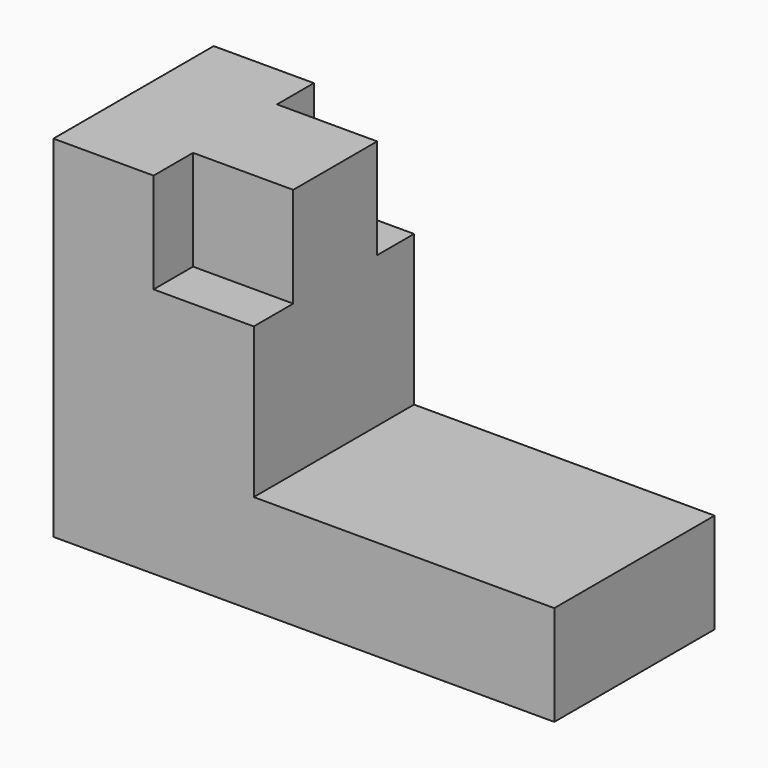
from build123d import *

# Parameters (mm, degrees)
F1_DEPTH   = 25.4
F2_W       = 6.2540306985
F2_H       = 12.7
F2_W_2     = 5.8445585892
F1_FACE1_W = 25.4
F1_FACE1_H = 19.05
F3_DEPTH   = 12.7


with BuildPart() as f1:
    # F0 (on Front) → F1 (new body)
    with BuildSketch(Plane.XZ):
        Polygon((0, 31.75), (0, 0), (63.5, 0), (63.5, 12.7), (38.1, 12.7), (38.1, 19.05), (12.7, 19.05), (12.7, 44.45), (0, 44.45), align=None)
        Polygon((25.4, 44.45), (12.7, 44.45), (12.7, 19.05), (38.1, 19.05), (38.1, 31.75), (25.4, 31.75), align=None)
    extrude(amount=F1_DEPTH)

    # F2 (on face) + F1_face1 (on face) → F3 (cut, symmetric)
    with BuildSketch(Plane.YZ.offset(25.4)):
        with Locations((-22.2729846507, 38.1)):
            Rectangle(F2_W, F2_H)
        with Locations((-2.9222792946, 38.1)):
            Rectangle(F2_W_2, F2_H)
    with BuildSketch(Plane(origin=(38.1, -12.7, 22.225), x_dir=(0, 1, 0), z_dir=(1, 0, 0))):
        Rectangle(F1_FACE1_W, F1_FACE1_H)
    extrude(amount=F3_DEPTH, both=True, mode=Mode.SUBTRACT)


solid = f1.part
